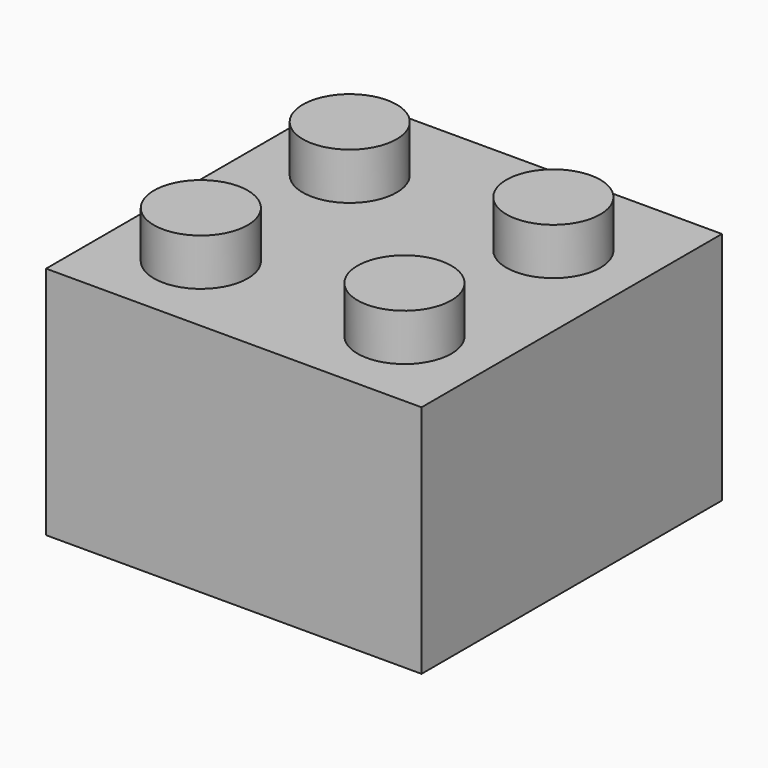
from build123d import *

# Parameters (mm, degrees)
F0_W     = 32
F0_H     = 32
F1_DEPTH = 20
F2_T     = -2.5
F3_R     = 4
F4_DEPTH = 4


with BuildPart() as f1:
    # F0 (on Top) → F1 (new body)
    with BuildSketch(Plane.XY):
        with Locations((-40.726009, 25.983708)):
            Rectangle(F0_W, F0_H)
    extrude(amount=F1_DEPTH)

    # F2
    f2_openings = [f1.faces().sort_by_distance(p)[0] for p in [
        (-40.726009, 25.983708, 0),
    ]]
    offset(amount=F2_T, openings=f2_openings)

    # F3 (on face) → F4 (join)
    with BuildSketch(Plane.XY.offset(20)):
        with Locations((-49.358711, 33.123519)):
            Circle(F3_R)
        with Locations((-49.358711, 17.261552)):
            Circle(F3_R)
        with Locations((-32.003853, 17.261552)):
            Circle(F3_R)
        with Locations((-32.003853, 33.123519)):
            Circle(F3_R)
    extrude(amount=F4_DEPTH)


solid = f1.part
